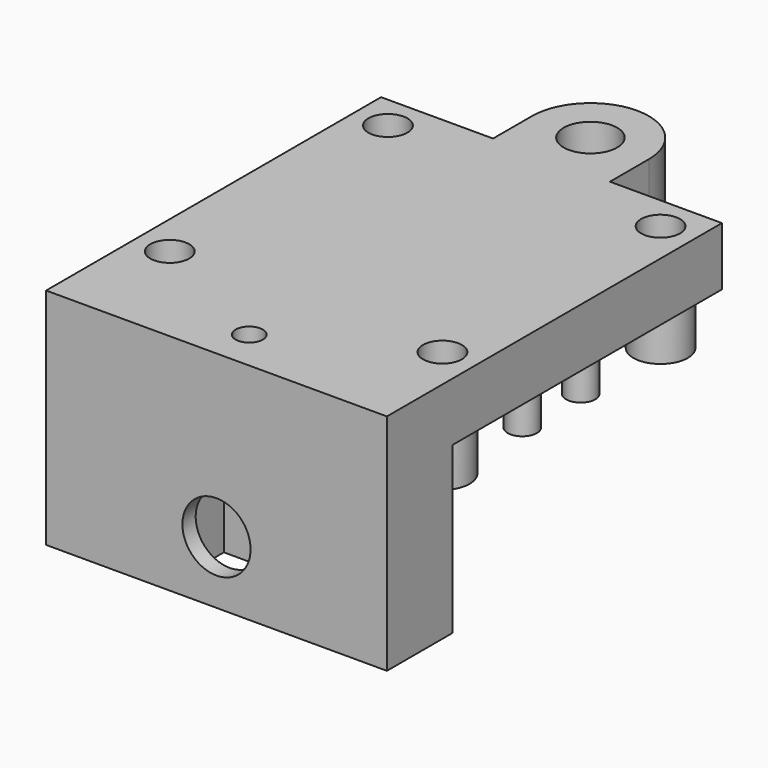
from build123d import *

# Parameters (mm, degrees)
F0_R           = 2.8
F0_R_2         = 1.5
F1_DEPTH       = 6
F2_DEPTH       = 5
F3_D           = 5.5
F3_DEPTH       = 30
F3_CBORE_D     = 9.5
F3_CBORE_DEPTH = 1.5
F3_TIP         = 1.6523667023
F5_D           = 2.8
F5_CBORE_D     = 4
F5_CBORE_DEPTH = 4
F6_W           = 35
F6_H           = 17
F6_H_2         = 6
F7_DEPTH       = 8
F7_DEPTH_BACK  = 0.4
F10_DEPTH      = 3.7
F10_DEPTH_BACK = 2.5
F11_D          = 7
F11_DEPTH      = 4.201
F13_D          = 2.8


with BuildPart() as f1:
    # F0 (on Top) → F1 (new body)
    with BuildSketch(Plane.XY):
        with BuildLine():
            Line((-6, 17.5), (-17.5, 17.5))
            Line((-17.5, 17.5), (-17.5, -17.5))
            Line((-17.5, -17.5), (17.5, -17.5))
            Line((17.5, -17.5), (17.5, 17.5))
            Line((17.5, 17.5), (6, 17.5))
            Line((6, 17.5), (3.3166247904, 17.5))
            ThreePointArc((3.3166247904, 17.5), (0, 16.5), (-3.3166247904, 17.5))
            Line((-3.3166247904, 17.5), (-6, 17.5))
        make_face()
        with Locations((-14, -14)):
            Circle(F0_R, mode=Mode.SUBTRACT)
        with Locations((-14, -3.75)):
            Circle(F0_R_2, mode=Mode.SUBTRACT)
        with Locations((-14, 3.75)):
            Circle(F0_R_2, mode=Mode.SUBTRACT)
        with Locations((14, -14)):
            Circle(F0_R, mode=Mode.SUBTRACT)
        with Locations((14, -3.75)):
            Circle(F0_R_2, mode=Mode.SUBTRACT)
        with Locations((14, 3.75)):
            Circle(F0_R_2, mode=Mode.SUBTRACT)
        with Locations((-14, 14)):
            Circle(F0_R, mode=Mode.SUBTRACT)
        with Locations((14, 14)):
            Circle(F0_R, mode=Mode.SUBTRACT)
        with BuildLine():
            ThreePointArc((-6, 22.5), (-5.2867640737, 19.6627256691), (-3.3166247904, 17.5))
            Line((-3.3166247904, 17.5), (3.3166247904, 17.5))
            ThreePointArc((3.3166247904, 17.5), (5.2867640737, 19.6627256691), (6, 22.5))
            Line((6, 22.5), (-6, 22.5))
        make_face()
        with BuildLine():
            ThreePointArc((6, 22.5), (0, 28.5), (-6, 22.5))
            Line((-6, 22.5), (6, 22.5))
        make_face()
        with BuildLine():
            ThreePointArc((6, 22.5), (5.2867640737, 19.6627256691), (3.3166247904, 17.5))
            Line((3.3166247904, 17.5), (6, 17.5))
            Line((6, 17.5), (6, 22.5))
        make_face()
        with BuildLine():
            Line((3.3166247904, 17.5), (-3.3166247904, 17.5))
            ThreePointArc((-3.3166247904, 17.5), (0, 16.5), (3.3166247904, 17.5))
        make_face()
        with BuildLine():
            Line((-6, 22.5), (-6, 17.5))
            Line((-6, 17.5), (-3.3166247904, 17.5))
            ThreePointArc((-3.3166247904, 17.5), (-5.2867640737, 19.6627256691), (-6, 22.5))
        make_face()
        with Locations((-14, -14)):
            Circle(F0_R)
        with Locations((14, -14)):
            Circle(F0_R)
        with Locations((14, 14)):
            Circle(F0_R)
        with Locations((-14, 14)):
            Circle(F0_R)
        with Locations((-14, 3.75)):
            Circle(F0_R_2)
        with Locations((-14, -3.75)):
            Circle(F0_R_2)
        with Locations((14, -3.75)):
            Circle(F0_R_2)
        with Locations((14, 3.75)):
            Circle(F0_R_2)
    extrude(amount=F1_DEPTH)

    # F0 (on Top) → F2 (join)
    with BuildSketch(Plane.XY):
        with Locations((-14, -14)):
            Circle(F0_R)
        with Locations((-14, 14)):
            Circle(F0_R)
        with Locations((14, 14)):
            Circle(F0_R)
        with Locations((14, -14)):
            Circle(F0_R)
        with Locations((-14, 3.75)):
            Circle(F0_R_2)
        with Locations((-14, -3.75)):
            Circle(F0_R_2)
        with Locations((14, -3.75)):
            Circle(F0_R_2)
        with Locations((14, 3.75)):
            Circle(F0_R_2)
    extrude(amount=-F2_DEPTH)

    # F3
    with Locations(Plane(origin=(0, 0, 0), x_dir=(1, 0, 0), z_dir=(0, 0, -1))):
        with Locations((0, -22.5)):
            CounterBoreHole(F3_D / 2, F3_CBORE_D / 2, F3_CBORE_DEPTH, depth=F3_DEPTH)
            with Locations((0, 0, -(F3_DEPTH + F3_TIP / 2))):  # 118° drill point
                Cone(0, F3_D / 2, F3_TIP, mode=Mode.SUBTRACT)

    # F5 (through all)
    with Locations(Plane.XY.offset(6)):
        with Locations((-14, 14), (14, 14), (14, -14), (-14, -14)):
            CounterBoreHole(F5_D / 2, F5_CBORE_D / 2, F5_CBORE_DEPTH)

    # F6 (on face) → F7 (join, two sides)
    with BuildSketch(Plane.XZ.offset(17.5)) as f7_sk:
        with Locations((0, -8.5)):
            Rectangle(F6_W, F6_H)
        with Locations((0, 3)):
            Rectangle(F6_W, F6_H_2)
    extrude(amount=F7_DEPTH)
    extrude(f7_sk.sketch, amount=-F7_DEPTH_BACK)

    # F9 (on mid) → F10 (cut, two sides)
    with BuildSketch(Plane(origin=(0, -21.3, 0), x_dir=(-1, 0, 0), z_dir=(0, 1, 0))) as f10_sk:
        Polygon((5.562, -13.7887778028), (-5.562, -13.7887778028), (0, -17), align=None)
        Polygon((-5.562, -7.3663334083), (-5.562, -13.7887778028), (5.562, -13.7887778028), (5.562, -7.3663334083), (0, -4.1551112111), align=None)
        Polygon((0, -17), (-5.562, -13.7887778028), (-5.562, -17), align=None)
        Polygon((5.562, -13.7887778028), (0, -17), (5.562, -17), align=None)
    extrude(amount=F10_DEPTH, mode=Mode.SUBTRACT)
    extrude(f10_sk.sketch, amount=-F10_DEPTH_BACK, mode=Mode.SUBTRACT)

    # F11 (through all, one way)
    with BuildSketch(Plane(origin=(0, -21.3, 0), x_dir=(-1, 0, 0), z_dir=(0, 1, 0))):
        with Locations((0, -10.5775556055)):
            Circle(F11_D / 2)
    extrude(amount=-F11_DEPTH, mode=Mode.SUBTRACT)

    # F13 (through all)
    with Locations(Plane.XY.offset(6)):
        with Locations((0, -21.3)):
            Hole(F13_D / 2)


solid = f1.part
